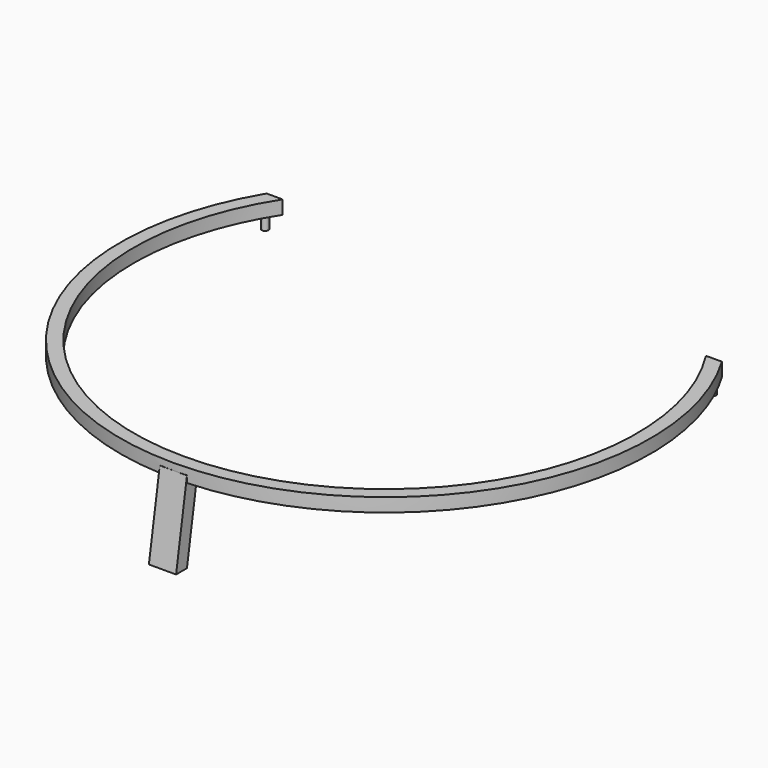
from build123d import *

# Parameters (mm, degrees)
F0_R      = 97.5
F0_R_2    = 92.5
F1_DEPTH  = 5
F4_W      = 10
F4_H      = 5
F7_DEPTH  = 27.5
F10_DEPTH = 197.501
F11_R     = 1.25
F12_DEPTH = 5


with BuildPart() as f1:
    # F0 (on Top) → F1 (new body)
    with BuildSketch(Plane.XY):
        Circle(F0_R)
        Circle(F0_R_2, mode=Mode.SUBTRACT)
    extrude(amount=F1_DEPTH)

    # F5: sweep along a path in F2
    with BuildLine(Plane.YZ) as f5_path:
        Line((-95, 2.5), (-100, -27.5))
    # F4 (on plane+point) → F5 (sweep)
    with BuildSketch(Plane.XY.offset(-27.5)):
        with Locations((0, -100)):
            Rectangle(F4_W, F4_H)
    sweep(path=f5_path.line)

    # F6 (on face) → F7 (join)
    with BuildSketch(Plane(origin=(0, 0, 0), x_dir=(1, 0, 0), z_dir=(0, 0, -1))):
        with BuildLine():
            Line((-74.6893332041, -62.6717919444), (-70.8591109885, -59.457853896))
            ThreePointArc((-70.8591109885, -59.457853896), (-80.1073498501, -46.25), (-86.9215674227, -31.6368632576))
            Line((-86.9215674227, -31.6368632576), (-91.6200305266, -33.3469639743))
            ThreePointArc((-91.6200305266, -33.3469639743), (-84.437476869, -48.75), (-74.6893332041, -62.6717919444))
        make_face()
        with BuildLine():
            ThreePointArc((86.9215674227, -31.6368632576), (80.1073498501, -46.25), (70.8591109885, -59.457853896))
            Line((70.8591109885, -59.457853896), (74.6893332041, -62.6717919444))
            ThreePointArc((74.6893332041, -62.6717919444), (84.437476869, -48.75), (91.6200305266, -33.3469639743))
            Line((91.6200305266, -33.3469639743), (86.9215674227, -31.6368632576))
        make_face()
    extrude(amount=F7_DEPTH)

    # F9 (on offset) → F10 (cut, through all)
    with BuildSketch(Plane.YZ.offset(100)):
        Polygon((50, 0), (0, 0), (0, -29.4982548803), (101.8575504422, -29.4982548803), (101.8575504422, 5), (50, 5), align=None)
    extrude(amount=-F10_DEPTH, mode=Mode.SUBTRACT)

    # F11 (on face) → F12 (join)
    with BuildSketch(Plane(origin=(0, 0, 0), x_dir=(1, 0, 0), z_dir=(0, 0, -1))):
        with Locations((82.2597355808, -47.5)):
            Circle(F11_R)
        with Locations((-82.2597355808, -47.5)):
            Circle(F11_R)
    extrude(amount=F12_DEPTH)


solid = f1.part
